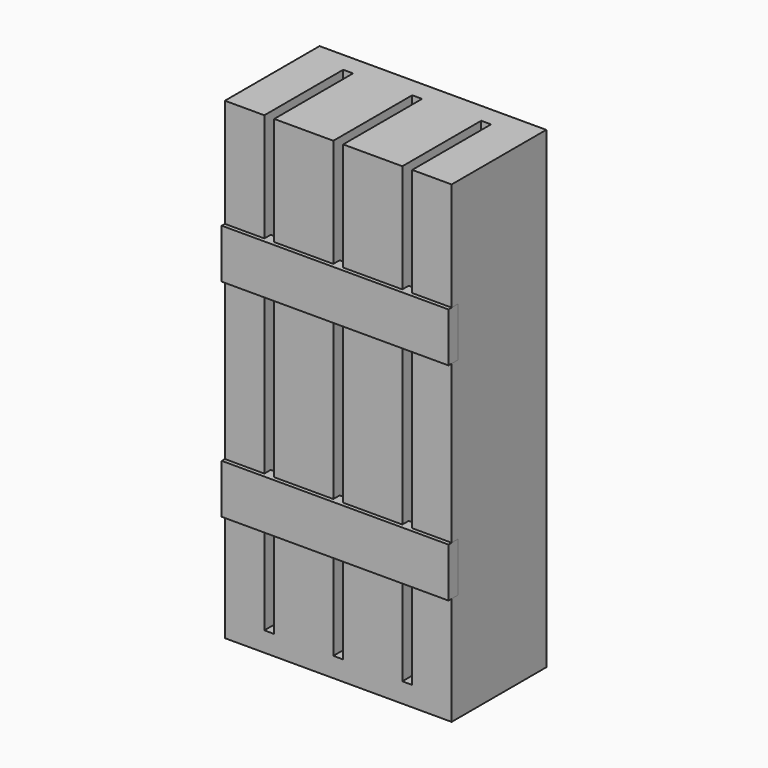
from build123d import *

# Parameters (mm, degrees)
F0_W          = 20
F0_H          = 55
F0_W_2        = 5
F0_H_2        = 25
F0_W_3        = 30
F0_H_3        = 80
F0_H_4        = 45
F0_H_5        = 10
F1_DEPTH      = 60
F2_DEPTH      = 50
F3_DEPTH      = 4
F4_DEPTH      = 2
F4_DEPTH_BACK = 4
F5_DEPTH      = 2
F5_DEPTH_BACK = 4


with BuildPart() as f1:
    # F0 (on Front) → F1 (new body)
    with BuildSketch(Plane.XZ):
        with Locations((-47.5, 75.7)):
            Rectangle(F0_W, F0_H)
        with Locations((-35, 75.7)):
            Rectangle(F0_W_2, F0_H)
        with Locations((-47.5, 35.7)):
            Rectangle(F0_W, F0_H_2)
        with Locations((-17.5, 75.7)):
            Rectangle(F0_W_3, F0_H)
        with Locations((-47.5, -16.8)):
            Rectangle(F0_W, F0_H_3)
        with Locations((0, 75.7)):
            Rectangle(F0_W_2, F0_H)
        with Locations((-47.5, -69.3)):
            Rectangle(F0_W, F0_H_2)
        with Locations((17.5, 75.7)):
            Rectangle(F0_W_3, F0_H)
        with Locations((-47.5, -104.3)):
            Rectangle(F0_W, F0_H_4)
        with Locations((35, 75.7)):
            Rectangle(F0_W_2, F0_H)
        with Locations((-47.5, -131.8)):
            Rectangle(F0_W, F0_H_5)
        with Locations((47.5, 75.7)):
            Rectangle(F0_W, F0_H)
        Polygon((-32.5, -126.8), (-37.5, -126.8), (-37.5, -136.8), (37.5, -136.8), (37.5, -126.8), (32.5, -126.8), (2.5, -126.8), (-2.5, -126.8), align=None)
        with Locations((47.5, 35.7)):
            Rectangle(F0_W, F0_H_2)
        with Locations((47.5, -16.8)):
            Rectangle(F0_W, F0_H_3)
        with Locations((47.5, -131.8)):
            Rectangle(F0_W, F0_H_5)
        with Locations((47.5, -69.3)):
            Rectangle(F0_W, F0_H_2)
        with Locations((47.5, -104.3)):
            Rectangle(F0_W, F0_H_4)
        with Locations((-35, -104.3)):
            Rectangle(F0_W_2, F0_H_4)
        with Locations((-17.5, -104.3)):
            Rectangle(F0_W_3, F0_H_4)
        with Locations((-17.5, -16.8)):
            Rectangle(F0_W_3, F0_H_3)
        with Locations((-17.5, 35.7)):
            Rectangle(F0_W_3, F0_H_2)
        with Locations((-17.5, -69.3)):
            Rectangle(F0_W_3, F0_H_2)
        with Locations((-35, -69.3)):
            Rectangle(F0_W_2, F0_H_2)
        with Locations((-35, -16.8)):
            Rectangle(F0_W_2, F0_H_3)
        with Locations((-35, 35.7)):
            Rectangle(F0_W_2, F0_H_2)
        with Locations((0, 35.7)):
            Rectangle(F0_W_2, F0_H_2)
        with Locations((17.5, 35.7)):
            Rectangle(F0_W_3, F0_H_2)
        with Locations((35, 35.7)):
            Rectangle(F0_W_2, F0_H_2)
        with Locations((35, -16.8)):
            Rectangle(F0_W_2, F0_H_3)
        with Locations((17.5, -16.8)):
            Rectangle(F0_W_3, F0_H_3)
        with Locations((0, -16.8)):
            Rectangle(F0_W_2, F0_H_3)
        with Locations((0, -16.8)):
            Rectangle(F0_W_2, F0_H_3)
        with Locations((17.5, -16.8)):
            Rectangle(F0_W_3, F0_H_3)
        with Locations((0, -69.3)):
            Rectangle(F0_W_2, F0_H_2)
        with Locations((0, -104.3)):
            Rectangle(F0_W_2, F0_H_4)
        with Locations((17.5, -104.3)):
            Rectangle(F0_W_3, F0_H_4)
        with Locations((35, -104.3)):
            Rectangle(F0_W_2, F0_H_4)
        with Locations((35, -69.3)):
            Rectangle(F0_W_2, F0_H_2)
        with Locations((17.5, -69.3)):
            Rectangle(F0_W_3, F0_H_2)
    extrude(amount=-F1_DEPTH)

    # F0 (on Front) → F2 (cut)
    with BuildSketch(Plane.XZ):
        with Locations((-35, 75.7)):
            Rectangle(F0_W_2, F0_H)
        with Locations((-35, 35.7)):
            Rectangle(F0_W_2, F0_H_2)
        with Locations((-35, -16.8)):
            Rectangle(F0_W_2, F0_H_3)
        with Locations((-35, -69.3)):
            Rectangle(F0_W_2, F0_H_2)
        with Locations((-35, -104.3)):
            Rectangle(F0_W_2, F0_H_4)
        with Locations((0, -104.3)):
            Rectangle(F0_W_2, F0_H_4)
        with Locations((0, -69.3)):
            Rectangle(F0_W_2, F0_H_2)
        with Locations((0, -16.8)):
            Rectangle(F0_W_2, F0_H_3)
        with Locations((0, 35.7)):
            Rectangle(F0_W_2, F0_H_2)
        with Locations((0, 75.7)):
            Rectangle(F0_W_2, F0_H)
        with Locations((35, 75.7)):
            Rectangle(F0_W_2, F0_H)
        with Locations((35, 35.7)):
            Rectangle(F0_W_2, F0_H_2)
        with Locations((35, -16.8)):
            Rectangle(F0_W_2, F0_H_3)
        with Locations((35, -104.3)):
            Rectangle(F0_W_2, F0_H_4)
        with Locations((35, -69.3)):
            Rectangle(F0_W_2, F0_H_2)
    extrude(amount=-F2_DEPTH, mode=Mode.SUBTRACT)

    # F0 (on Front) → F3 (cut)
    with BuildSketch(Plane.XZ):
        with Locations((-47.5, 35.7)):
            Rectangle(F0_W, F0_H_2)
        with Locations((-35, 35.7)):
            Rectangle(F0_W_2, F0_H_2)
        with Locations((-17.5, 35.7)):
            Rectangle(F0_W_3, F0_H_2)
        with Locations((0, 35.7)):
            Rectangle(F0_W_2, F0_H_2)
        with Locations((17.5, 35.7)):
            Rectangle(F0_W_3, F0_H_2)
        with Locations((35, 35.7)):
            Rectangle(F0_W_2, F0_H_2)
        with Locations((47.5, 35.7)):
            Rectangle(F0_W, F0_H_2)
        with Locations((-47.5, -69.3)):
            Rectangle(F0_W, F0_H_2)
        with Locations((-35, -69.3)):
            Rectangle(F0_W_2, F0_H_2)
        with Locations((-17.5, -69.3)):
            Rectangle(F0_W_3, F0_H_2)
        with Locations((0, -69.3)):
            Rectangle(F0_W_2, F0_H_2)
        with Locations((35, -69.3)):
            Rectangle(F0_W_2, F0_H_2)
        with Locations((47.5, -69.3)):
            Rectangle(F0_W, F0_H_2)
        with Locations((17.5, -69.3)):
            Rectangle(F0_W_3, F0_H_2)
    extrude(amount=-F3_DEPTH, mode=Mode.SUBTRACT)


with BuildPart() as f4:
    # F0 (on Front) → F4 (new body, two sides)
    with BuildSketch(Plane.XZ) as f4_sk:
        with Locations((-47.5, 35.7)):
            Rectangle(F0_W, F0_H_2)
        with Locations((-35, 35.7)):
            Rectangle(F0_W_2, F0_H_2)
        with Locations((0, 35.7)):
            Rectangle(F0_W_2, F0_H_2)
        with Locations((17.5, 35.7)):
            Rectangle(F0_W_3, F0_H_2)
        with Locations((47.5, 35.7)):
            Rectangle(F0_W, F0_H_2)
        with Locations((-17.5, 35.7)):
            Rectangle(F0_W_3, F0_H_2)
        with Locations((35, 35.7)):
            Rectangle(F0_W_2, F0_H_2)
    extrude(amount=F4_DEPTH)
    extrude(f4_sk.sketch, amount=-F4_DEPTH_BACK)


with BuildPart() as f5:
    # F0 (on Front) → F5 (new body, two sides)
    with BuildSketch(Plane.XZ) as f5_sk:
        with Locations((-47.5, -69.3)):
            Rectangle(F0_W, F0_H_2)
        with Locations((-35, -69.3)):
            Rectangle(F0_W_2, F0_H_2)
        with Locations((-17.5, -69.3)):
            Rectangle(F0_W_3, F0_H_2)
        with Locations((0, -69.3)):
            Rectangle(F0_W_2, F0_H_2)
        with Locations((17.5, -69.3)):
            Rectangle(F0_W_3, F0_H_2)
        with Locations((35, -69.3)):
            Rectangle(F0_W_2, F0_H_2)
        with Locations((47.5, -69.3)):
            Rectangle(F0_W, F0_H_2)
    extrude(amount=F5_DEPTH)
    extrude(f5_sk.sketch, amount=-F5_DEPTH_BACK)


solid = Compound([f1.part, f4.part, f5.part])
